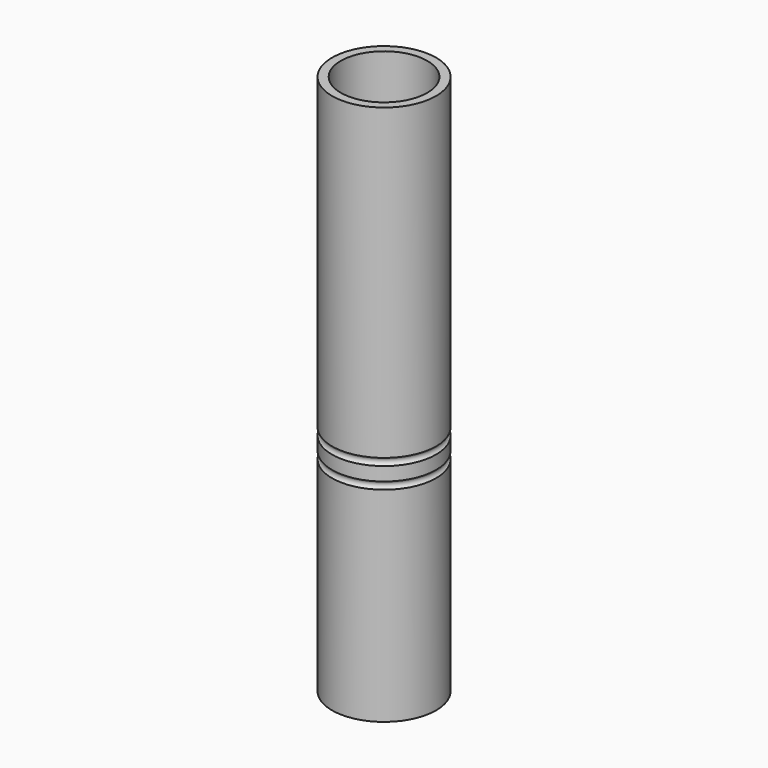
from build123d import *

# Parameters (mm, degrees)
TORUS_R           = 1
TORUS001_R        = 1
CYLINDER001_R     = 10.4
CYLINDER001_DEPTH = 130
CYLINDER_R        = 12.5
CYLINDER_DEPTH    = 130


with BuildPart() as torus:
    # Torus → Torus (revolve)
    with BuildSketch(Plane(origin=(0, 0, 55), x_dir=(1, 0, 0), z_dir=(0, -1, 0))):
        with Locations((13, 0)):
            Circle(TORUS_R)
    revolve(axis=Axis((0, 0, 55), (0, 0, 1)))


with BuildPart() as torus001:
    # Torus001 → Torus001 (revolve)
    with BuildSketch(Plane(origin=(0, 0, 50), x_dir=(1, 0, 0), z_dir=(0, -1, 0))):
        with Locations((13, 0)):
            Circle(TORUS001_R)
    revolve(axis=Axis((0, 0, 50), (0, 0, 1)))


with BuildPart() as cylinder001:
    # Cylinder001 → Cylinder001 (new body)
    with BuildSketch(Plane.XY):
        Circle(CYLINDER001_R)
    extrude(amount=CYLINDER001_DEPTH)


with BuildPart() as cut002:
    # Cylinder → Cylinder (new body)
    with BuildSketch(Plane.XY):
        Circle(CYLINDER_R)
    extrude(amount=CYLINDER_DEPTH)

    # Cut: cut Cylinder001
    add(cylinder001.part, mode=Mode.SUBTRACT)

    # Cut001: cut Torus001
    add(torus001.part, mode=Mode.SUBTRACT)

    # Cut002: cut Torus
    add(torus.part, mode=Mode.SUBTRACT)


solid = cut002.part
